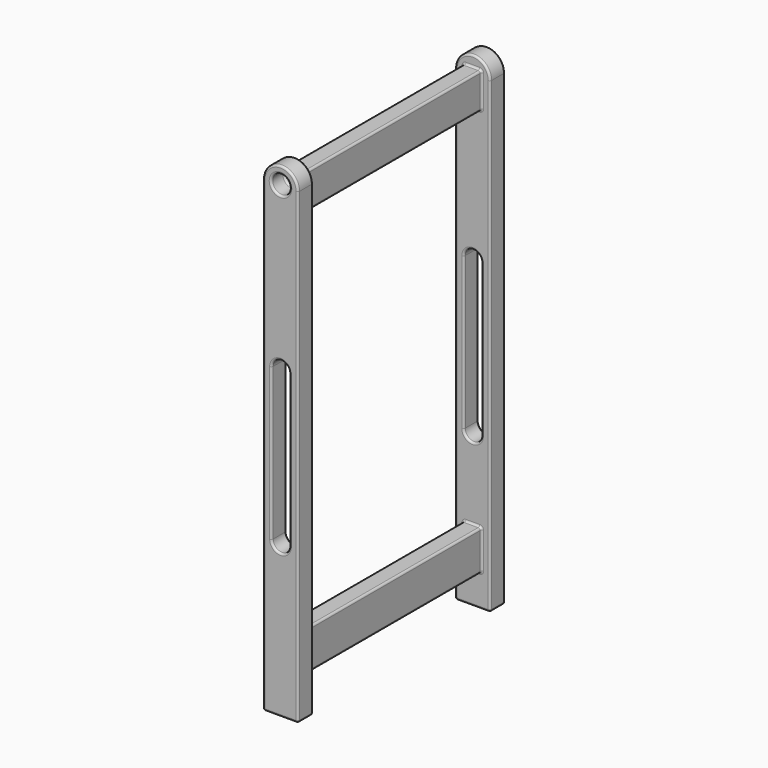
from build123d import *

# Parameters (mm, degrees)
F1_DEPTH  = 9.4
F2_W      = 8.95
F2_H      = 17.9
F2_H_2    = 20.1375
F3_DEPTH  = 111.875
F5_DEPTH  = 9.4
F7_DEPTH  = 130.676
F6_R      = 4.7
F8_DEPTH  = 8.4
F9_R      = 4.7
F10_DEPTH = 8.4
F11_R     = 1


with BuildPart() as f1:
    # F0 (on Front) → F1 (new body)
    with BuildSketch(Plane.XZ):
        with BuildLine():
            Line((-8.84, 118.08), (-8.84, -118.08))
            Line((-8.84, -118.08), (8.84, -118.08))
            Line((8.84, -118.08), (8.84, 118.08))
            ThreePointArc((8.84, 118.08), (0, 126.92), (-8.84, 118.08))
        make_face()
    extrude(amount=F1_DEPTH)

    # F2 (on face) → F3 (join)
    with BuildSketch(Plane.XZ.offset(9.4)):
        with Locations((0.11, 112.6075)):
            Rectangle(F2_W, F2_H)
        with Locations((0.11, -91.76125)):
            Rectangle(F2_W, F2_H_2)
    extrude(amount=F3_DEPTH)

    # F4 (on face) → F5 (join)
    with BuildSketch(Plane.XZ.offset(121.275)):
        with BuildLine():
            Line((8.84, -118.08), (8.84, 118.08))
            ThreePointArc((8.84, 118.08), (0, 126.92), (-8.84, 118.08))
            Line((-8.84, 118.08), (-8.84, -118.08))
            Line((-8.84, -118.08), (8.84, -118.08))
        make_face()
    extrude(amount=F5_DEPTH)

    # F6 (on face) → F7 (cut, through all)
    with BuildSketch(Plane.XZ.offset(130.675)):
        with BuildLine():
            Line((4.475, -40.88), (4.475, 35.87))
            ThreePointArc((4.475, 35.87), (0, 40.345), (-4.475, 35.87))
            Line((-4.475, 35.87), (-4.475, -40.88))
            ThreePointArc((-4.475, -40.88), (0, -45.355), (4.475, -40.88))
        make_face()
    extrude(amount=-F7_DEPTH, mode=Mode.SUBTRACT)

    # F6 (on face) → F8 (cut)
    with BuildSketch(Plane.XZ.offset(130.675)):
        with Locations((0, 118.42)):
            Circle(F6_R)
    extrude(amount=-F8_DEPTH, mode=Mode.SUBTRACT)

    # F9 (on face) → F10 (cut)
    with BuildSketch(Plane(origin=(0, 0, 0), x_dir=(-1, 0, 0), z_dir=(0, 1, 0))):
        with Locations((0, 118.42)):
            Circle(F9_R)
    extrude(amount=-F10_DEPTH, mode=Mode.SUBTRACT)

    # F11
    f11_edges = [f1.edges().sort_by_distance(p)[0] for p in [
        (-8.84, -130.675, 0),
        (0, -130.675, 126.92),
        (0, -130.675, -118.08),
        (8.84, -130.675, 0),
        (-4.475, -130.675, -2.505),
        (0, -130.675, 40.345),
        (0, -130.675, -45.355),
        (4.475, -130.675, -2.505),
        (-4.7, -130.675, 118.42),
        (-8.84, -9.4, 0),
        (0, -9.4, 126.92),
        (0, -9.4, -118.08),
        (8.84, -9.4, 0),
        (-4.475, -9.4, -2.505),
        (0, -9.4, -45.355),
        (4.475, -9.4, -2.505),
        (0, -9.4, 40.345),
        (0.11, -9.4, -101.83),
        (-4.365, -9.4, -91.76125),
        (4.585, -9.4, -91.76125),
        (0.11, -9.4, -81.6925),
        (0.11, -9.4, 121.5575),
        (4.585, -9.4, 112.6075),
        (-4.365, -9.4, 112.6075),
        (0.11, -9.4, 103.6575),
        (4.585, -65.3375, 103.6575),
        (4.585, -65.3375, 121.5575),
        (4.585, -121.275, 112.6075),
        (-4.365, -65.3375, 121.5575),
        (0.11, -121.275, 121.5575),
        (-8.84, -121.275, 0),
        (0, -121.275, 126.92),
        (0, -121.275, -118.08),
        (8.84, -121.275, 0),
        (-4.475, -121.275, -2.505),
        (0, -121.275, -45.355),
        (4.475, -121.275, -2.505),
        (0, -121.275, 40.345),
        (0.11, -121.275, -101.83),
        (-4.365, -121.275, -91.76125),
        (4.585, -121.275, -91.76125),
        (0.11, -121.275, -81.6925),
        (-4.365, -121.275, 112.6075),
        (0.11, -121.275, 103.6575),
        (-8.84, 0, 0),
        (0, 0, 126.92),
        (0, 0, -118.08),
        (8.84, 0, 0),
        (-4.475, 0, -2.505),
        (0, 0, 40.345),
        (0, 0, -45.355),
        (4.475, 0, -2.505),
        (4.7, 0, 118.42),
        (-4.365, -65.3375, 103.6575),
        (-4.365, -65.3375, -81.6925),
        (-4.365, -65.3375, -101.83),
        (4.585, -65.3375, -101.83),
        (4.585, -65.3375, -81.6925),
        (-8.84, -4.7, -118.08),
        (8.84, -4.7, -118.08),
        (-8.84, -125.975, -118.08),
        (8.84, -125.975, -118.08),
        (4.7, -8.4, 118.42),
        (-4.7, -122.275, 118.42),
    ]]
    fillet(f11_edges, radius=F11_R)


solid = f1.part
